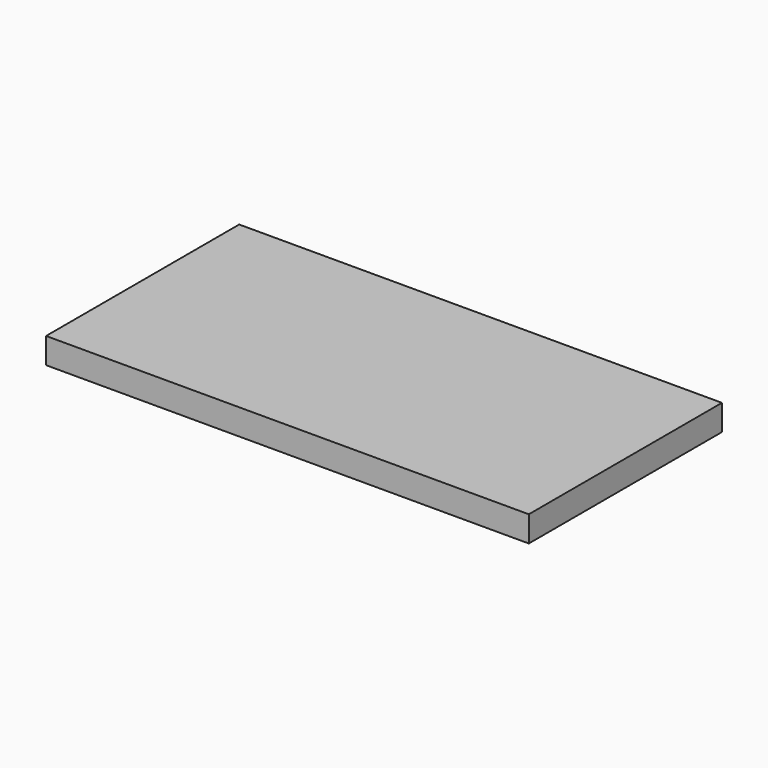
from build123d import *

# Parameters (mm, degrees)
SKETCH_W  = 30
SKETCH_H  = 15
PAD_DEPTH = 1.6


with BuildPart() as part:
    # Sketch → Pad (new body)
    with BuildSketch(Plane.XY):
        Rectangle(SKETCH_W, SKETCH_H)
    extrude(amount=PAD_DEPTH)


solid = part.part
